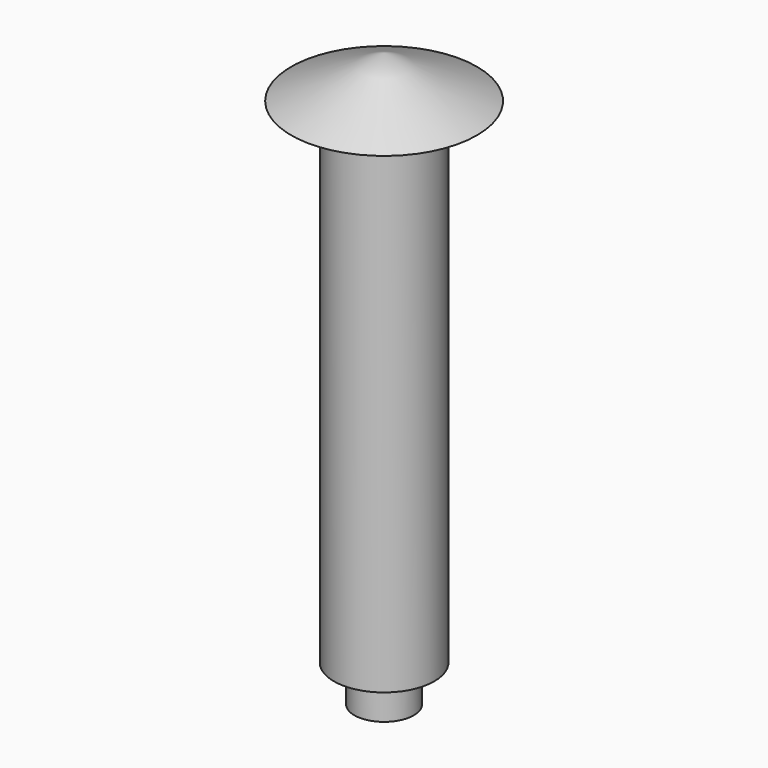
from build123d import *

# Parameters (mm, degrees)
F0_R     = 50.782965
F1_DEPTH = 500
F4_R     = 30.052271
F5_DEPTH = 37


with BuildPart() as f1:
    # F0 (on Top) → F1 (new body)
    with BuildSketch(Plane.XY):
        Circle(F0_R)
    extrude(amount=F1_DEPTH)

    # F2 (on Front) → F3 (revolve)
    with BuildSketch(Plane.XZ):
        Polygon((93.926854, 500), (0, 542.704165), (0, 500), align=None)
    revolve(axis=Axis((0, 0, 521.352082), (0, 0, -1)))

    # F4 (on face) → F5 (join)
    with BuildSketch(Plane(origin=(0, 0, 0), x_dir=(1, 0, 0), z_dir=(0, 0, -1))):
        Circle(F4_R)
    extrude(amount=F5_DEPTH)


solid = f1.part
